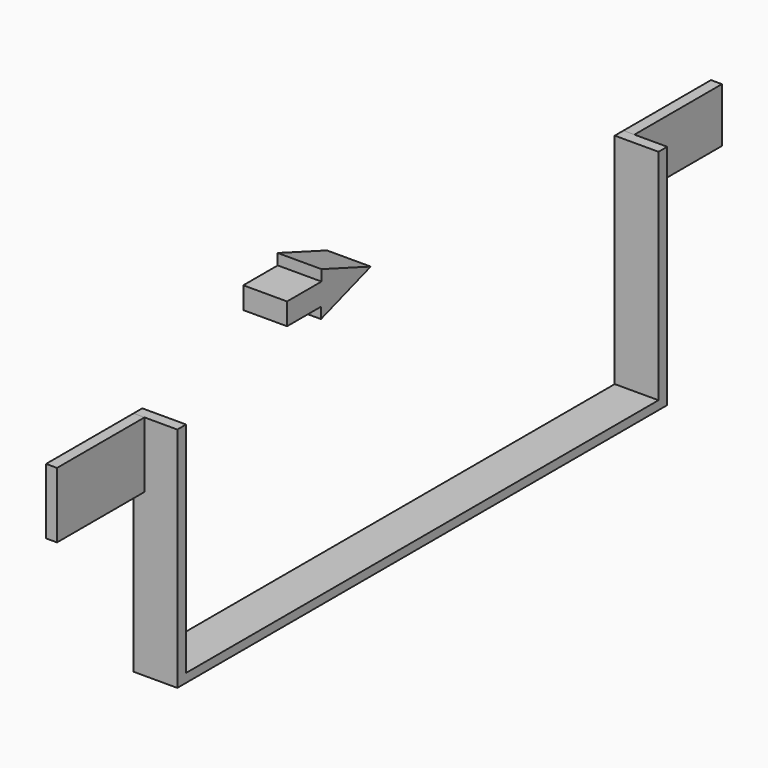
from build123d import *

# Parameters (mm, degrees)
F1_DEPTH = 25.4
F0_W     = 63.5
F0_H     = 31.5976
F2_DEPTH = 6.35
F0_H_2   = 38.1
F3_DEPTH = 6.35
F4_DEPTH = 25.4


with BuildPart() as f1:
    # F0 (on Right) → F1 (new body)
    with BuildSketch(Plane.YZ):
        Polygon((241.967354, 69.426666), (241.967354, -57.573334), (248.317354, -57.573334), (248.317354, 37.829066), (248.317354, 69.426666), align=None)
        Polygon((-100.932646, -57.573334), (-107.282646, -57.573334), (-107.282646, -62.653334), (248.317354, -62.653334), (248.317354, -57.573334), (241.967354, -57.573334), align=None)
        Polygon((-107.282646, 31.326666), (-107.282646, -57.573334), (-100.932646, -57.573334), (-100.932646, 69.426666), (-107.282646, 69.426666), align=None)
    extrude(amount=F1_DEPTH)


with BuildPart() as f2:
    # F0 (on Right) → F2 (new body)
    with BuildSketch(Plane.YZ):
        with Locations((280.067354, 53.627866)):
            Rectangle(F0_W, F0_H)
    extrude(amount=F2_DEPTH)


with BuildPart() as f3:
    # F0 (on Right) → F3 (new body)
    with BuildSketch(Plane.YZ):
        with Locations((-139.032646, 50.376666)):
            Rectangle(F0_W, F0_H_2)
    extrude(amount=F3_DEPTH)


with BuildPart() as f4:
    # F0 (on Right) → F4 (new body)
    with BuildSketch(Plane.YZ):
        Polygon((33.090098, 95.664516), (-2.646084, 108.875696), (-2.646084, 102.525696), (-27.623326, 102.525696), (-27.623326, 89.825696), (-3.007585, 89.825696), (-3.007585, 83.475696), align=None)
    extrude(amount=F4_DEPTH)


solid = Compound([f1.part, f2.part, f3.part, f4.part])
